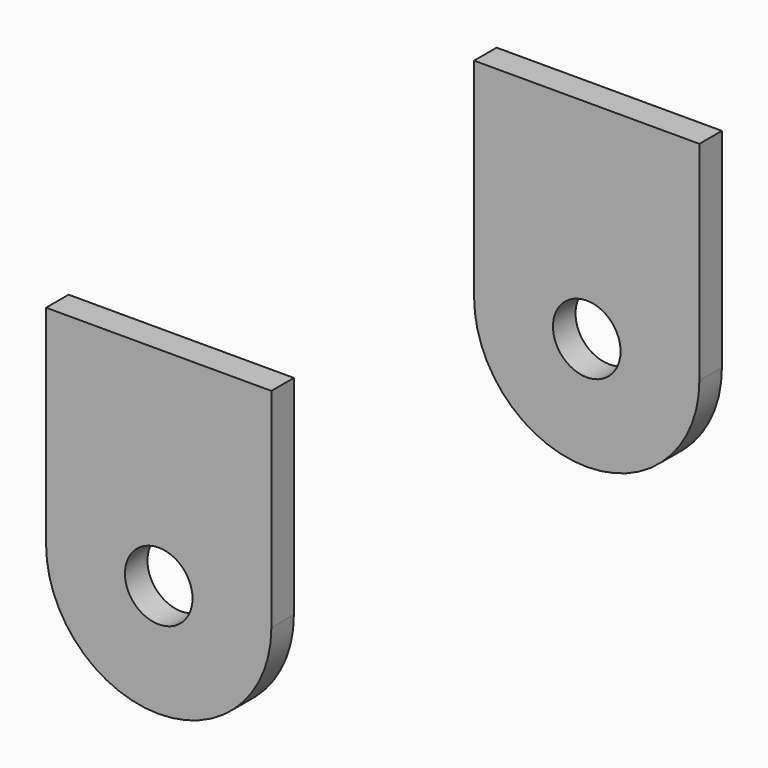
from build123d import *

# Parameters (mm, degrees)
F0_R     = 6
F1_DEPTH = 5


with BuildPart() as f1:
    # F0 (on Front) → F1 (new body)
    with BuildSketch(Plane.XZ):
        with BuildLine():
            Line((20, -18.5), (20, 18.5))
            Line((20, 18.5), (-20, 18.5))
            Line((-20, 18.5), (-20, -18.5))
            ThreePointArc((-20, -18.5), (0, -38.5), (20, -18.5))
        make_face()
        with Locations((0, -18.5)):
            Circle(F0_R, mode=Mode.SUBTRACT)
    extrude(amount=F1_DEPTH)


with BuildPart() as f3_1:
    # F3: instance of F1
    add(f1.part.mirror(Plane.XZ.offset(50)))


solid = Compound([f1.part, f3_1.part])
